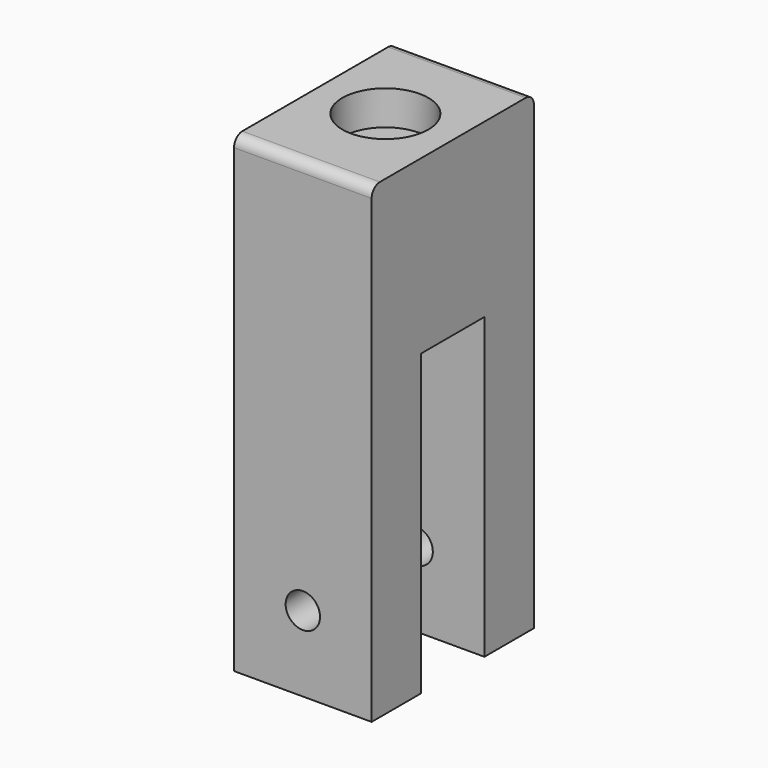
from build123d import *

# Parameters (mm, degrees)
CYLINDER244_R           = 5.5
CYLINDER244_DEPTH       = 5
CYLINDER243_R           = 12.5
CYLINDER243_DEPTH       = 10
CYLINDER242_R           = 5
CYLINDER242_DEPTH       = 59
CYLINDER242_PITCH_ANGLE = 90
BOX124_W                = 23
BOX124_H                = 40
BOX124_DEPTH            = 87
BOX123_W                = 59
BOX123_H                = 40
BOX123_DEPTH            = 137
CUT269_PLACEMENT_ANGLE  = 90
FILLET_R                = 3


with BuildPart() as cilindro139:
    # Cylinder244 → Cylinder244 (new body)
    with BuildSketch(Plane(origin=(30, 15, 122), x_dir=(1, 0, 0), z_dir=(0, 0, 1))):
        Circle(CYLINDER244_R)
    extrude(amount=CYLINDER244_DEPTH)


with BuildPart() as cilindro138:
    # Cylinder243 → Cylinder243 (new body)
    with BuildSketch(Plane(origin=(30, 15, 127), x_dir=(1, 0, 0), z_dir=(0, 0, 1))):
        Circle(CYLINDER243_R)
    extrude(amount=CYLINDER243_DEPTH)


with BuildPart() as cilindro137:
    # Cylinder242 → Cylinder242 (new body)
    with BuildSketch(Plane.XY):
        Circle(CYLINDER242_R)
    extrude(amount=CYLINDER242_DEPTH)


with BuildPart() as cilindro137_1:
    # Cylinder242 pitch: moved
    add(cilindro137.part.rotate(Axis((0, 0, 0), (0, 1, 0)), CYLINDER242_PITCH_ANGLE))


with BuildPart() as cilindro137_2:
    # Cylinder242 placement: moved
    add(cilindro137_1.part.moved(Location((0, 15, 22))))


with BuildPart() as cubo086:
    # Box124 → Box124 (new body)
    with BuildSketch(Plane(origin=(18, -5, 0), x_dir=(1, 0, 0), z_dir=(0, 0, 1))):
        with Locations((11.5, 20)):
            Rectangle(BOX124_W, BOX124_H)
    extrude(amount=BOX124_DEPTH)


with BuildPart() as fillet_body:
    # Box123 → Box123 (new body)
    with BuildSketch(Plane(origin=(0, -5, 0), x_dir=(1, 0, 0), z_dir=(0, 0, 1))):
        with Locations((29.5, 20)):
            Rectangle(BOX123_W, BOX123_H)
    extrude(amount=BOX123_DEPTH)

    # Cut266: cut Cubo086
    add(cubo086.part, mode=Mode.SUBTRACT)

    # Cut267: cut Cilindro137
    add(cilindro137_2.part, mode=Mode.SUBTRACT)

    # Cut268: cut Cilindro138
    add(cilindro138.part, mode=Mode.SUBTRACT)

    # Cut269: cut Cilindro139
    add(cilindro139.part, mode=Mode.SUBTRACT)


with BuildPart() as fillet_body_1:
    # Cut269 placement: moved
    add(fillet_body.part.moved(Location((-444, 431, -153))).rotate(Axis((-444, 431, -153), (0, 0, 1)), CUT269_PLACEMENT_ANGLE))

    # Fillet
    fillet_edges = [fillet_body_1.edges().sort_by_distance(p)[0] for p in [
        (-459, 431, -16),
        (-459, 490, -16),
    ]]
    fillet(fillet_edges, radius=FILLET_R)


solid = fillet_body_1.part
